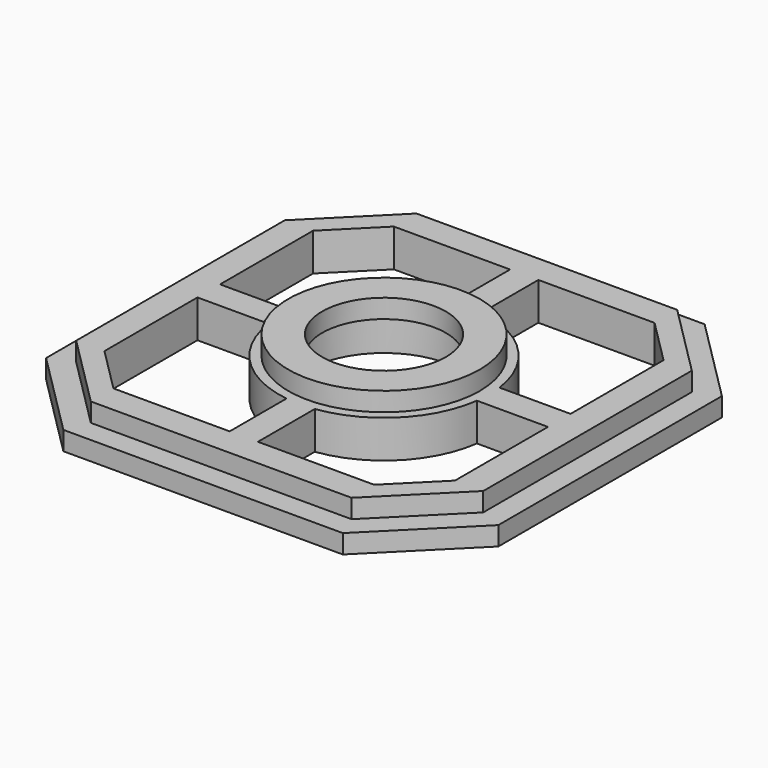
from build123d import *

# Parameters (mm, degrees)
F2_DEPTH = 5
F3_DEPTH = 5
F4_R     = 25.4
F4_R_2   = 16.4
F5_DEPTH = 5


with BuildPart() as f2:
    # F1 (on Top) → F2 (new body)
    with BuildSketch(Plane.XY):
        Polygon((34.5857864376, 54), (-34.5857864376, 54), (-54, 34.5857864376), (-54, -34.5857864376), (-34.5857864376, -54), (34.5857864376, -54), (54, -34.5857864376), (54, 34.5857864376), align=None)
        Polygon((46.5, 34.5857864376), (46.5, 3.75), (46.5, -3.75), (46.5, -34.5857864376), (34.5857864376, -46.5), (3.75, -46.5), (-3.75, -46.5), (-34.5857864376, -46.5), (-46.5, -34.5857864376), (-46.5, -3.75), (-46.5, 3.75), (-46.5, 34.5857864376), (-34.5857864376, 46.5), (-3.75, 46.5), (3.75, 46.5), (34.5857864376, 46.5), align=None, mode=Mode.SUBTRACT)
        with BuildLine():
            ThreePointArc((27.6468352619, -3.75), (27.8366368641, -1.8792679682), (27.9, 0))
            ThreePointArc((27.9, 0), (27.8366368641, 1.8792679682), (27.6468352619, 3.75))
            ThreePointArc((27.6468352619, 3.75), (19.7282791951, 19.7282791951), (3.75, 27.6468352619))
            ThreePointArc((3.75, 27.6468352619), (0, 27.9), (-3.75, 27.6468352619))
            ThreePointArc((-3.75, 27.6468352619), (-19.7282791951, 19.7282791951), (-27.6468352619, 3.75))
            ThreePointArc((-27.6468352619, 3.75), (-27.9, 0), (-27.6468352619, -3.75))
            ThreePointArc((-27.6468352619, -3.75), (-19.7282791951, -19.7282791951), (-3.75, -27.6468352619))
            ThreePointArc((-3.75, -27.6468352619), (0, -27.9), (3.75, -27.6468352619))
            ThreePointArc((3.75, -27.6468352619), (19.7282791951, -19.7282791951), (27.6468352619, -3.75))
        make_face()
        with BuildLine():
            ThreePointArc((7.4269778511, -19), (0, -20.4), (-7.4269778511, -19))
            ThreePointArc((-7.4269778511, -19), (-11.5032528408, 16.8474085272), (20.4, 0))
            ThreePointArc((20.4, 0), (16.8474085272, -11.5032528408), (7.4269778511, -19))
        make_face(mode=Mode.SUBTRACT)
        Polygon((-42.0710678119, 55), (-35, 55), (35, 55), (42.0710678119, 55), (37.0710678119, 60), (-37.0710678119, 60), align=None)
        Polygon((-55, 35), (-55, 42.0710678119), (-60, 37.0710678119), (-60, -37.0710678119), (-55, -42.0710678119), (-55, -35), align=None)
        Polygon((-42.0710678119, -55), (-37.0710678119, -60), (37.0710678119, -60), (42.0710678119, -55), (35, -55), (-35, -55), align=None)
        Polygon((60, 37.0710678119), (55, 42.0710678119), (55, 35), (55, -35), (55, -42.0710678119), (60, -37.0710678119), align=None)
        with BuildLine():
            ThreePointArc((27.6468352619, 3.75), (27.8366368641, 1.8792679682), (27.9, 0))
            ThreePointArc((27.9, 0), (27.8366368641, -1.8792679682), (27.6468352619, -3.75))
            Line((27.6468352619, -3.75), (46.5, -3.75))
            Line((46.5, -3.75), (46.5, 3.75))
            Line((46.5, 3.75), (27.6468352619, 3.75))
        make_face()
        with BuildLine():
            ThreePointArc((-3.75, 27.6468352619), (0, 27.9), (3.75, 27.6468352619))
            Line((3.75, 27.6468352619), (3.75, 46.5))
            Line((3.75, 46.5), (-3.75, 46.5))
            Line((-3.75, 46.5), (-3.75, 27.6468352619))
        make_face()
        with BuildLine():
            ThreePointArc((-27.6468352619, -3.75), (-27.9, 0), (-27.6468352619, 3.75))
            Line((-27.6468352619, 3.75), (-46.5, 3.75))
            Line((-46.5, 3.75), (-46.5, -3.75))
            Line((-46.5, -3.75), (-27.6468352619, -3.75))
        make_face()
        with BuildLine():
            Line((3.75, -46.5), (3.75, -27.6468352619))
            ThreePointArc((3.75, -27.6468352619), (0, -27.9), (-3.75, -27.6468352619))
            Line((-3.75, -27.6468352619), (-3.75, -46.5))
            Line((-3.75, -46.5), (3.75, -46.5))
        make_face()
        Polygon((-54, 36), (-36, 54), (-43.0710678119, 54), (-54, 43.0710678119), align=None)
        Polygon((-36, -54), (-54, -36), (-54, -43.0710678119), (-43.0710678119, -54), align=None)
        Polygon((54, -43.0710678119), (54, -36), (36, -54), (43.0710678119, -54), align=None)
        Polygon((43.0710678119, 54), (36, 54), (54, 36), (54, 43.0710678119), align=None)
        Polygon((-54, 34.5857864376), (-54, 36), (-55, 35), (-55, -35), (-54, -36), (-54, -34.5857864376), align=None)
        Polygon((34.5857864376, -54), (-34.5857864376, -54), (-36, -54), (-35, -55), (35, -55), (36, -54), align=None)
        Polygon((35, 55), (-35, 55), (-36, 54), (-34.5857864376, 54), (34.5857864376, 54), (36, 54), align=None)
        Polygon((-54, 34.5857864376), (-54, 36), (-55, 35), (-55, -35), (-54, -36), (-54, -34.5857864376), align=None)
        Polygon((34.5857864376, -54), (-34.5857864376, -54), (-36, -54), (-35, -55), (35, -55), (36, -54), align=None)
        Polygon((55, 35), (54, 36), (54, 34.5857864376), (54, -34.5857864376), (54, -36), (55, -35), align=None)
        Polygon((-34.5857864376, -54), (-54, -34.5857864376), (-54, -36), (-36, -54), align=None)
        Polygon((-34.5857864376, 54), (-36, 54), (-54, 36), (-54, 34.5857864376), align=None)
        Polygon((54, -36), (54, -34.5857864376), (34.5857864376, -54), (36, -54), align=None)
        Polygon((54, 36), (36, 54), (34.5857864376, 54), (54, 34.5857864376), align=None)
        with BuildLine():
            ThreePointArc((3.9191835885, -19), (0, -19.4), (-3.9191835885, -19))
            Line((-3.9191835885, -19), (-7.4269778511, -19))
            ThreePointArc((-7.4269778511, -19), (0, -20.4), (7.4269778511, -19))
            Line((7.4269778511, -19), (3.9191835885, -19))
        make_face()
        Polygon((-36, 54), (-35, 55), (-42.0710678119, 55), (-43.0710678119, 54), align=None)
        Polygon((-55, 35), (-54, 36), (-54, 43.0710678119), (-55, 42.0710678119), align=None)
        Polygon((-54, -36), (-55, -35), (-55, -42.0710678119), (-54, -43.0710678119), align=None)
        Polygon((-35, -55), (-36, -54), (-43.0710678119, -54), (-42.0710678119, -55), align=None)
        Polygon((55, -42.0710678119), (55, -35), (54, -36), (54, -43.0710678119), align=None)
        Polygon((43.0710678119, -54), (36, -54), (35, -55), (42.0710678119, -55), align=None)
        Polygon((42.0710678119, 55), (35, 55), (36, 54), (43.0710678119, 54), align=None)
        Polygon((54, 43.0710678119), (54, 36), (55, 35), (55, 42.0710678119), align=None)
        with BuildLine():
            Line((3.9191835885, -19), (-3.9191835885, -19))
            ThreePointArc((-3.9191835885, -19), (0, -19.4), (3.9191835885, -19))
        make_face()
    extrude(amount=-F2_DEPTH)

    # F1 (on Top) → F3 (join)
    with BuildSketch(Plane.XY):
        Polygon((34.5857864376, 54), (-34.5857864376, 54), (-54, 34.5857864376), (-54, -34.5857864376), (-34.5857864376, -54), (34.5857864376, -54), (54, -34.5857864376), (54, 34.5857864376), align=None)
        Polygon((46.5, 34.5857864376), (46.5, 3.75), (46.5, -3.75), (46.5, -34.5857864376), (34.5857864376, -46.5), (3.75, -46.5), (-3.75, -46.5), (-34.5857864376, -46.5), (-46.5, -34.5857864376), (-46.5, -3.75), (-46.5, 3.75), (-46.5, 34.5857864376), (-34.5857864376, 46.5), (-3.75, 46.5), (3.75, 46.5), (34.5857864376, 46.5), align=None, mode=Mode.SUBTRACT)
        with BuildLine():
            ThreePointArc((27.6468352619, -3.75), (27.8366368641, -1.8792679682), (27.9, 0))
            ThreePointArc((27.9, 0), (27.8366368641, 1.8792679682), (27.6468352619, 3.75))
            ThreePointArc((27.6468352619, 3.75), (19.7282791951, 19.7282791951), (3.75, 27.6468352619))
            ThreePointArc((3.75, 27.6468352619), (0, 27.9), (-3.75, 27.6468352619))
            ThreePointArc((-3.75, 27.6468352619), (-19.7282791951, 19.7282791951), (-27.6468352619, 3.75))
            ThreePointArc((-27.6468352619, 3.75), (-27.9, 0), (-27.6468352619, -3.75))
            ThreePointArc((-27.6468352619, -3.75), (-19.7282791951, -19.7282791951), (-3.75, -27.6468352619))
            ThreePointArc((-3.75, -27.6468352619), (0, -27.9), (3.75, -27.6468352619))
            ThreePointArc((3.75, -27.6468352619), (19.7282791951, -19.7282791951), (27.6468352619, -3.75))
        make_face()
        with BuildLine():
            ThreePointArc((7.4269778511, -19), (0, -20.4), (-7.4269778511, -19))
            ThreePointArc((-7.4269778511, -19), (-11.5032528408, 16.8474085272), (20.4, 0))
            ThreePointArc((20.4, 0), (16.8474085272, -11.5032528408), (7.4269778511, -19))
        make_face(mode=Mode.SUBTRACT)
        with BuildLine():
            Line((3.75, -46.5), (3.75, -27.6468352619))
            ThreePointArc((3.75, -27.6468352619), (0, -27.9), (-3.75, -27.6468352619))
            Line((-3.75, -27.6468352619), (-3.75, -46.5))
            Line((-3.75, -46.5), (3.75, -46.5))
        make_face()
        with BuildLine():
            ThreePointArc((-27.6468352619, -3.75), (-27.9, 0), (-27.6468352619, 3.75))
            Line((-27.6468352619, 3.75), (-46.5, 3.75))
            Line((-46.5, 3.75), (-46.5, -3.75))
            Line((-46.5, -3.75), (-27.6468352619, -3.75))
        make_face()
        with BuildLine():
            ThreePointArc((27.6468352619, 3.75), (27.8366368641, 1.8792679682), (27.9, 0))
            ThreePointArc((27.9, 0), (27.8366368641, -1.8792679682), (27.6468352619, -3.75))
            Line((27.6468352619, -3.75), (46.5, -3.75))
            Line((46.5, -3.75), (46.5, 3.75))
            Line((46.5, 3.75), (27.6468352619, 3.75))
        make_face()
        with BuildLine():
            ThreePointArc((-3.75, 27.6468352619), (0, 27.9), (3.75, 27.6468352619))
            Line((3.75, 27.6468352619), (3.75, 46.5))
            Line((3.75, 46.5), (-3.75, 46.5))
            Line((-3.75, 46.5), (-3.75, 27.6468352619))
        make_face()
        with BuildLine():
            ThreePointArc((3.9191835885, -19), (0, -19.4), (-3.9191835885, -19))
            Line((-3.9191835885, -19), (-7.4269778511, -19))
            ThreePointArc((-7.4269778511, -19), (0, -20.4), (7.4269778511, -19))
            Line((7.4269778511, -19), (3.9191835885, -19))
        make_face()
        with BuildLine():
            Line((3.9191835885, -19), (-3.9191835885, -19))
            ThreePointArc((-3.9191835885, -19), (0, -19.4), (3.9191835885, -19))
        make_face()
    extrude(amount=F3_DEPTH)

    # F4 (on face) → F5 (join)
    with BuildSketch(Plane.XY.offset(5)):
        Circle(F4_R)
        with BuildLine():
            ThreePointArc((-7.4269778511, -19), (0, 20.4), (7.4269778511, -19))
            Line((7.4269778511, -19), (-7.4269778511, -19))
        make_face(mode=Mode.SUBTRACT)
        with BuildLine():
            Line((-7.4269778511, -19), (7.4269778511, -19))
            ThreePointArc((7.4269778511, -19), (0, 20.4), (-7.4269778511, -19))
        make_face()
        Circle(F4_R_2, mode=Mode.SUBTRACT)
    extrude(amount=F5_DEPTH)


solid = f2.part
